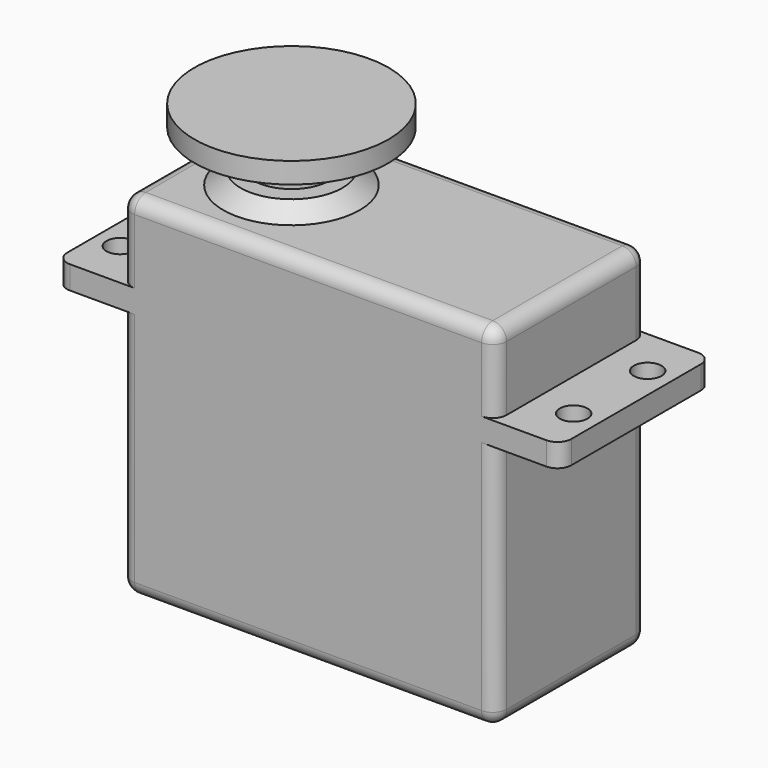
from build123d import *

# Parameters (mm, degrees)
CYLINDER001_R     = 3
CYLINDER001_DEPTH = 4.5
CYLINDER002_R     = 1.5
CYLINDER002_DEPTH = 5
BOX001_W          = 54.5
BOX001_H          = 20.5
BOX001_DEPTH      = 2.5
FILLET_R          = 1.5
FILLET001_R       = 1.5
FILLET002_R       = 1.5
FILLET003_R       = 1.5
BOX_W             = 40.5
BOX_H             = 20.5
BOX_DEPTH         = 38
FILLET004_R       = 1.5
CYLINDER_R        = 10.5
CYLINDER_DEPTH    = 2.25


with BuildPart() as servobodycone:
    # Cone → Cone (revolve)
    with BuildSketch(Plane(origin=(0, 0, 37.5), x_dir=(1, 0, 0), z_dir=(0, -1, 0))):
        Polygon((0, 0), (8, 0), (5.5, 2), (0, 2), align=None)
    revolve(axis=Axis((0, 0, 37.5), (0, 0, 1)))


with BuildPart() as cone001:
    # Cone001 → Cone001 (revolve)
    with BuildSketch(Plane(origin=(0, 0, 39.75), x_dir=(1, 0, 0), z_dir=(0, -1, 0))):
        Polygon((0, 0), (4.12, 0), (4.25, 4), (0, 4), align=None)
    revolve(axis=Axis((0, 0, 39.75), (0, 0, 1)))


with BuildPart() as shaft:
    # Cylinder001 → Cylinder001 (new body)
    with BuildSketch(Plane.XY.offset(38.5)):
        Circle(CYLINDER001_R)
    extrude(amount=CYLINDER001_DEPTH)


with BuildPart() as screw_hole1:
    # Cylinder002 → Cylinder002 (new body)
    with BuildSketch(Plane(origin=(-14.5, 5, 26), x_dir=(1, 0, 0), z_dir=(0, 0, 1))):
        Circle(CYLINDER002_R)
    extrude(amount=CYLINDER002_DEPTH)


with BuildPart() as screw_hole3:
    # Clone001 base: copy of Screw_hole1
    add(screw_hole1.part)


with BuildPart() as screw_hole3_1:
    # Clone001 placement: moved
    add(screw_hole3.part.moved(Location((49, 0, 0))))


with BuildPart() as screw_hole4:
    # Clone002 base: copy of Screw_hole3
    add(screw_hole3_1.part)


with BuildPart() as screw_hole4_1:
    # Clone002 placement: moved
    add(screw_hole4.part.moved(Location((0, -10, 0))))


with BuildPart() as screw_hole2:
    # Clone base: copy of Screw_hole1
    add(screw_hole1.part)


with BuildPart() as screw_hole2_1:
    # Clone placement: moved
    add(screw_hole2.part.moved(Location((0, -10, 0))))


with BuildPart() as servo_lugs001:
    # Box001 → Box001 (new body)
    with BuildSketch(Plane(origin=(-17.25, -10.25, 27), x_dir=(1, 0, 0), z_dir=(0, 0, 1))):
        with Locations((27.25, 10.25)):
            Rectangle(BOX001_W, BOX001_H)
    extrude(amount=BOX001_DEPTH)

    # Cut: cut Screw_hole1
    add(screw_hole1.part, mode=Mode.SUBTRACT)

    # Cut001: cut Screw_hole2
    add(screw_hole2_1.part, mode=Mode.SUBTRACT)

    # Cut002: cut Screw_hole3
    add(screw_hole3_1.part, mode=Mode.SUBTRACT)

    # Cut003: cut Screw_hole4
    add(screw_hole4_1.part, mode=Mode.SUBTRACT)

    # Fillet
    fillet_edges = [servo_lugs001.edges().sort_by_distance(p)[0] for p in [
        (37.25, -10.25, 28.25),
    ]]
    fillet(fillet_edges, radius=FILLET_R)

    # Fillet001
    fillet001_edges = [servo_lugs001.edges().sort_by_distance(p)[0] for p in [
        (37.25, 10.25, 28.25),
    ]]
    fillet(fillet001_edges, radius=FILLET001_R)

    # Fillet002
    fillet002_edges = [servo_lugs001.edges().sort_by_distance(p)[0] for p in [
        (-17.25, -10.25, 28.25),
    ]]
    fillet(fillet002_edges, radius=FILLET002_R)

    # Fillet003
    fillet003_edges = [servo_lugs001.edges().sort_by_distance(p)[0] for p in [
        (-17.25, 10.25, 28.25),
    ]]
    fillet(fillet003_edges, radius=FILLET003_R)


with BuildPart() as servobody001:
    # Box → Box (new body)
    with BuildSketch(Plane(origin=(-10.25, -10.25, 0), x_dir=(1, 0, 0), z_dir=(0, 0, 1))):
        with Locations((20.25, 10.25)):
            Rectangle(BOX_W, BOX_H)
    extrude(amount=BOX_DEPTH)

    # Fillet004
    fillet004_edges = [servobody001.edges().sort_by_distance(p)[0] for p in [
        (-10.25, -10.25, 19),
        (-10.25, 0, 38),
        (-10.25, 10.25, 19),
        (-10.25, 0, 0),
        (30.25, -10.25, 19),
        (30.25, 0, 38),
        (30.25, 10.25, 19),
        (30.25, 0, 0),
        (10, -10.25, 0),
        (10, -10.25, 38),
        (10, 10.25, 0),
        (10, 10.25, 38),
    ]]
    fillet(fillet004_edges, radius=FILLET004_R)


with BuildPart() as servo:
    # Cylinder → Cylinder (new body)
    with BuildSketch(Plane.XY.offset(43.5)):
        Circle(CYLINDER_R)
    extrude(amount=CYLINDER_DEPTH)

    # Fusion: union ServoBodyCone, Cone001, shaft, servo_lugs001, ServoBody001
    add(servobodycone.part)
    add(cone001.part)
    add(shaft.part)
    add(servo_lugs001.part)
    add(servobody001.part)


solid = servo.part
